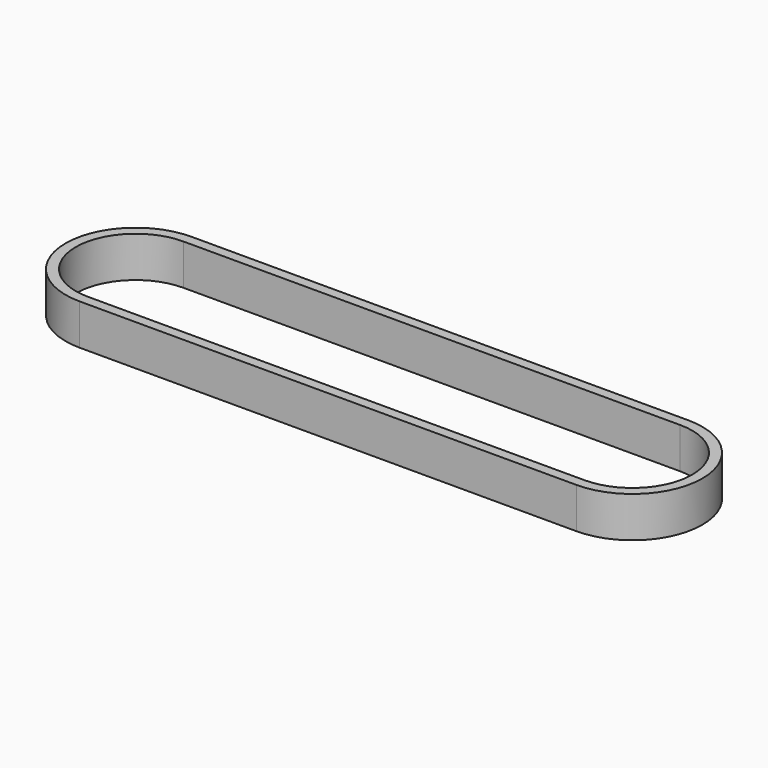
from build123d import *

# Parameters (mm, degrees)
F1_DEPTH = 8


with BuildPart() as f1:
    # F0 (on Top) → F1 (new body, symmetric)
    with BuildSketch(Plane.XY):
        with BuildLine():
            ThreePointArc((-195, 27.465), (-222.465, 0), (-195, -27.465))
            Line((-195, -27.465), (0, -27.465))
            ThreePointArc((0, -27.465), (27.465, 0), (0, 27.465))
            Line((0, 27.465), (-195, 27.465))
        make_face()
        with BuildLine():
            ThreePointArc((-195, -23.465), (-218.465, 0), (-195, 23.465))
            Line((-195, 23.465), (0, 23.465))
            ThreePointArc((0, 23.465), (23.465, 0), (0, -23.465))
            Line((0, -23.465), (-195, -23.465))
        make_face(mode=Mode.SUBTRACT)
    extrude(amount=F1_DEPTH, both=True)


solid = f1.part
